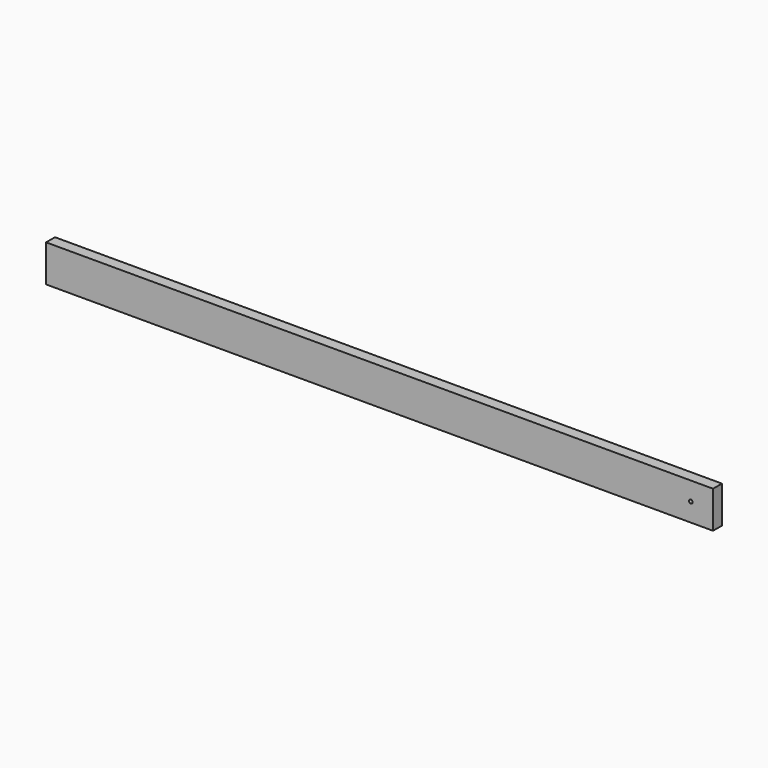
from build123d import *

# Parameters (mm, degrees)
F0_W     = 1143
F0_H     = 63.5
F0_R     = 3.175
F1_DEPTH = 9.525


with BuildPart() as f1:
    # F0 (on Front) → F1 (new body, symmetric)
    with BuildSketch(Plane.XZ):
        Rectangle(F0_W, F0_H)
        with Locations((533.4, 0)):
            Circle(F0_R, mode=Mode.SUBTRACT)
    extrude(amount=F1_DEPTH, both=True)


solid = f1.part
